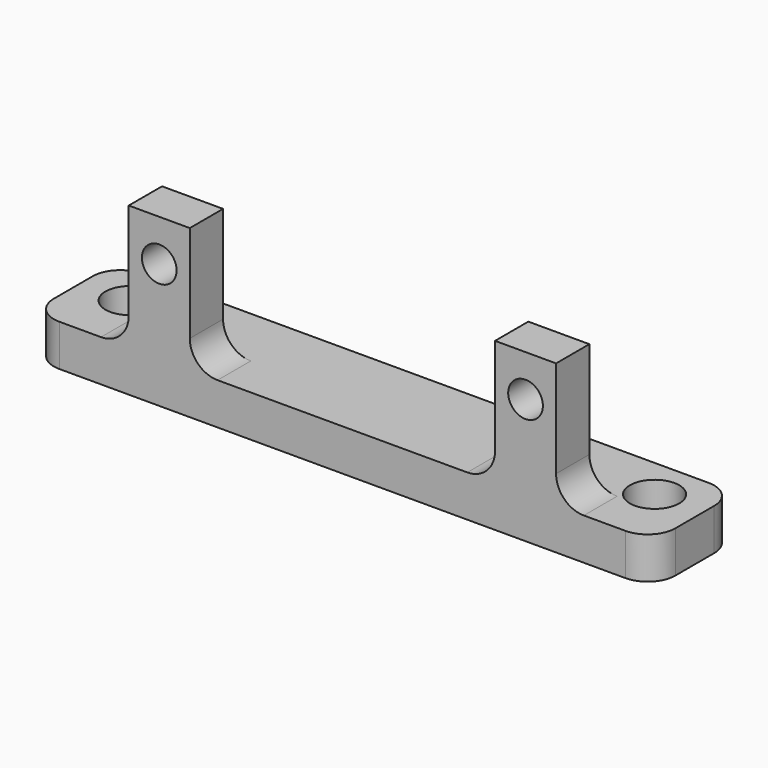
from build123d import *

# Parameters (mm, degrees)
F0_W     = 4.4
F0_H     = 9
F0_R     = 1.25
F1_DEPTH = 3
F2_W     = 44.8
F2_H     = 7.4952778638
F2_R     = 1.778
F3_DEPTH = 3
F4_R     = 2
F5_R     = 2


with BuildPart() as f1:
    # F0 (on Front) → F1 (new body)
    with BuildSketch(Plane.XZ):
        with Locations((2.2, 4.5)):
            Rectangle(F0_W, F0_H)
        with Locations((2.2, 6)):
            Circle(F0_R, mode=Mode.SUBTRACT)
    extrude(amount=F1_DEPTH)



with BuildPart() as f1b:
    # F0 (on Front) → F1, piece 2 (new body)
    with BuildSketch(Plane.XZ):
        with Locations((28.6, 4.5)):
            Rectangle(F0_W, F0_H)
        with Locations((28.6, 6)):
            Circle(F0_R, mode=Mode.SUBTRACT)
    extrude(amount=F1_DEPTH)


with BuildPart() as f1_1:
    add(f1.part)

    add(f1b.part)  # F3 merges F1b
    # F2 (on Top) → F3 (join)
    with BuildSketch(Plane.XY):
        with Locations((15.4, 0.7476389319)):
            Rectangle(F2_W, F2_H)
        with Locations((-3.5, 1.5)):
            Circle(F2_R, mode=Mode.SUBTRACT)
        with Locations((34.3, 1.5)):
            Circle(F2_R, mode=Mode.SUBTRACT)
    extrude(amount=-F3_DEPTH)

    # F4
    f4_edges = [f1_1.edges().sort_by_distance(p)[0] for p in [
        (0, -1.5, 0),
        (4.4, -1.5, 0),
        (26.4, -1.5, 0),
        (30.8, -1.5, 0),
    ]]
    fillet(f4_edges, radius=F4_R)

    # F5
    f5_edges = [f1_1.edges().sort_by_distance(p)[0] for p in [
        (-7, -3, -1.5),
        (-7, 4.495278, -1.5),
        (37.8, -3, -1.5),
        (37.8, 4.495278, -1.5),
    ]]
    fillet(f5_edges, radius=F5_R)


solid = f1_1.part
